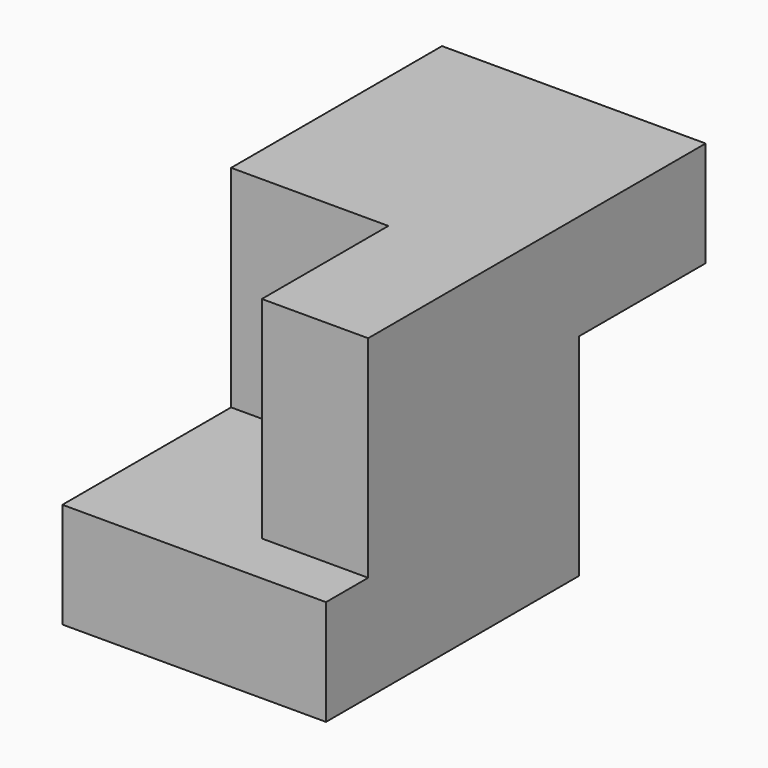
from build123d import *

# Parameters (mm, degrees)
F0_W     = 127
F0_H     = 50.8
F1_DEPTH = 152.4
F2_W     = 76.2
F2_H     = 50.8
F3_DEPTH = 101.6
F5_DEPTH = 101.6
F6_W     = 127
F6_H     = 50.8
F7_DEPTH = 76.2


with BuildPart() as f1:
    # F0 (on Front) → F1 (new body)
    with BuildSketch(Plane.XZ):
        with Locations((-12.272136, -61.733169)):
            Rectangle(F0_W, F0_H)
    extrude(amount=F1_DEPTH)

    # F2 (on face) → F3 (join)
    with BuildSketch(Plane.XY.offset(-36.333169)):
        with Locations((-37.672136, -25.4)):
            Rectangle(F2_W, F2_H)
    extrude(amount=F3_DEPTH)

    # F4 (on face) → F5 (join)
    with BuildSketch(Plane.XY.offset(-36.333169)):
        Polygon((51.227864, -127), (51.227864, 0), (0.427864, 0), (0.427864, -50.8), (0, -50.8), (0, -127), align=None)
    extrude(amount=F5_DEPTH)

    # F6 (on face) → F7 (join)
    with BuildSketch(Plane(origin=(0, 0, 0), x_dir=(-1, 0, 0), z_dir=(0, 1, 0))):
        with Locations((12.272136, 39.866831)):
            Rectangle(F6_W, F6_H)
    extrude(amount=F7_DEPTH)


solid = f1.part
